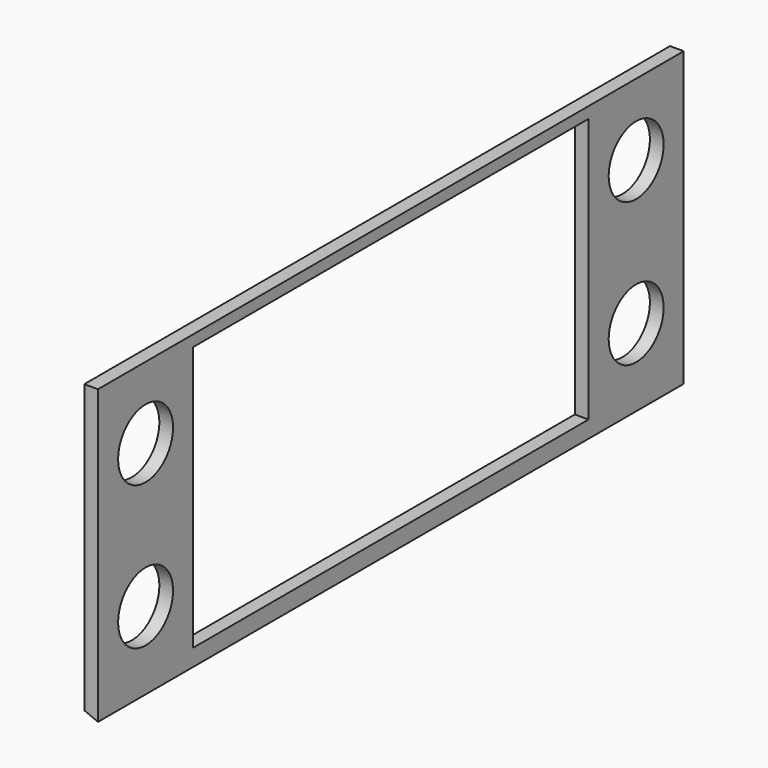
from build123d import *

# Parameters (mm, degrees)
F1_DEPTH = 1016
F2_W     = 685.8
F2_H     = 367.284
F3_DEPTH = 19.051
F4_R     = 47.625
F5_DEPTH = 19.051


with BuildPart() as f1:
    # F0 (on Front) → F1 (new body)
    with BuildSketch(Plane.XZ):
        Polygon((-19.05, 7.890768), (0, 0), (0, 406.4), (-19.05, 406.4), align=None)
    extrude(amount=F1_DEPTH)

    # F2 (on face) → F3 (cut, through all)
    with BuildSketch(Plane(origin=(-19.05, 0, 0), x_dir=(0, -1, 0), z_dir=(-1, 0, 0))):
        with Locations((508, 207.145384)):
            Rectangle(F2_W, F2_H)
    extrude(amount=-F3_DEPTH, mode=Mode.SUBTRACT)

    # F4 (on face) → F5 (cut, through all)
    with BuildSketch(Plane(origin=(-19.05, 0, 0), x_dir=(0, -1, 0), z_dir=(-1, 0, 0))):
        with Locations((82.55, 306.772692)):
            Circle(F4_R)
        with Locations((82.55, 107.518076)):
            Circle(F4_R)
        with Locations((933.45, 306.772692)):
            Circle(F4_R)
        with Locations((933.45, 107.518076)):
            Circle(F4_R)
    extrude(amount=-F5_DEPTH, mode=Mode.SUBTRACT)


solid = f1.part
